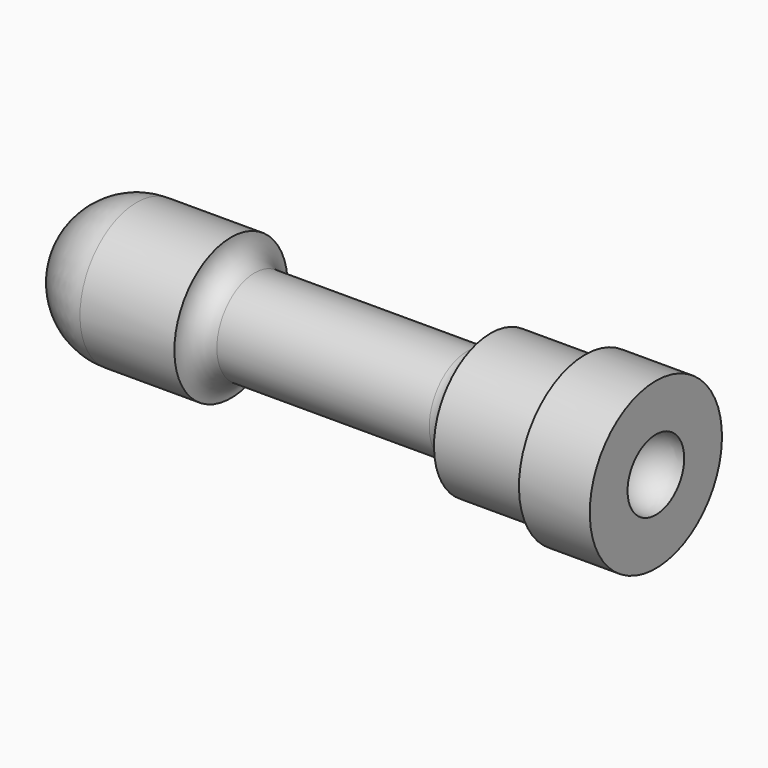
from build123d import *


with BuildPart() as f1:
    # F0 (on Front) → F1 (revolve)
    with BuildSketch(Plane.XZ):
        with BuildLine():
            Line((4, 3), (0, 3))
            ThreePointArc((0, 3), (-2.12132, 2.12132), (-3, 0))
            Line((-3, 0), (20.5, 0))
            ThreePointArc((20.5, 0), (20.93934, 1.06066), (22, 1.5))
            Line((22, 1.5), (22, 3.5))
            Line((22, 3.5), (19, 3.5))
            Line((19, 3.5), (19, 3))
            Line((19, 3), (15, 3))
            ThreePointArc((15, 3), (14.707107, 2.292893), (14, 2))
            Line((14, 2), (5, 2))
            ThreePointArc((5, 2), (4.292893, 2.292893), (4, 3))
        make_face()
    revolve(axis=Axis((8.75, 0, 0), (-1, 0, 0)))


solid = f1.part
